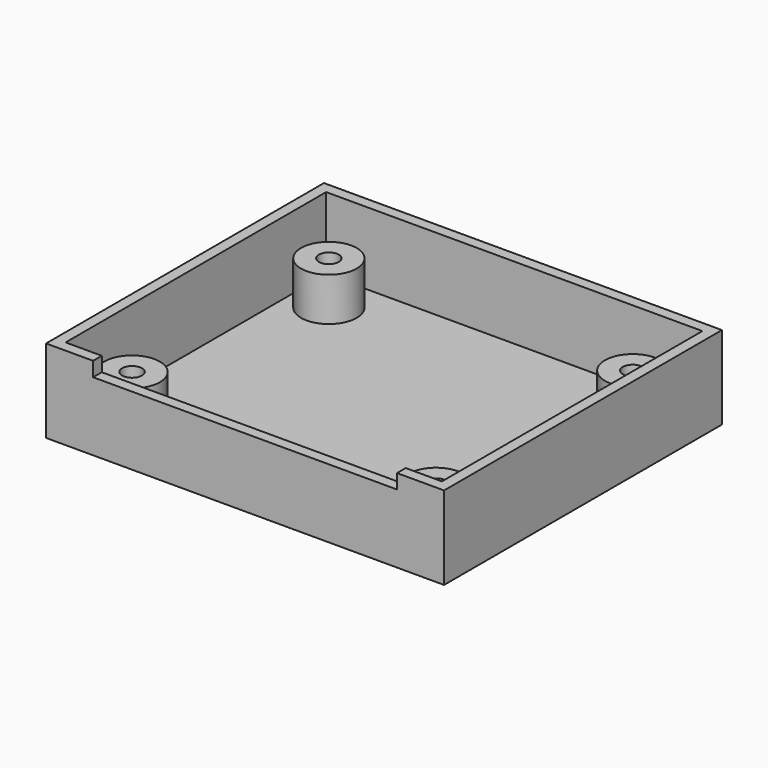
from build123d import *

# Parameters (mm, degrees)
SKETCH_W     = 55
SKETCH_H     = 48
PAD_DEPTH    = 1.5
SKETCH001_R  = 3.85
PAD001_DEPTH = 6
SKETCH002_R  = 1.375
POCKET_DEPTH = 6
PAD002_DEPTH = 10
SKETCH004_W  = 42
SKETCH004_H  = 1.5
PAD003_DEPTH = 8


with BuildPart() as part:
    # Sketch → Pad (new body)
    with BuildSketch(Plane.XY):
        with Locations((27.5, 24)):
            Rectangle(SKETCH_W, SKETCH_H)
    extrude(amount=PAD_DEPTH)

    # Sketch001 (on Face6 of Pad) → Pad001 (join)
    with BuildSketch(Plane.XY.offset(1.5)):
        with Locations((6.6, 6.6)):
            Circle(SKETCH001_R)
        with Locations((6.6, 40.6)):
            Circle(SKETCH001_R)
        with Locations((48.6, 40.6)):
            Circle(SKETCH001_R)
        with Locations((48.6, 6.6)):
            Circle(SKETCH001_R)
    extrude(amount=PAD001_DEPTH)

    # Sketch002 (on Face11 of Pad001) → Pocket (cut)
    with BuildSketch(Plane.XY.offset(7.5)):
        with Locations((6.6, 6.6)):
            Circle(SKETCH002_R)
        with Locations((6.6, 40.6)):
            Circle(SKETCH002_R)
        with Locations((48.6, 40.6)):
            Circle(SKETCH002_R)
        with Locations((48.6, 6.6)):
            Circle(SKETCH002_R)
    extrude(amount=-POCKET_DEPTH, mode=Mode.SUBTRACT)

    # Sketch003 (on Face5 of Pocket) → Pad002 (join)
    with BuildSketch(Plane.XY.offset(1.5)):
        Polygon((0, 0), (0, 48), (55, 48), (55, 0), (48.5, 0), (48.5, 1.5), (53.5, 1.5), (53.5, 46.5), (1.5, 46.5), (1.5, 1.5), (6.5, 1.5), (6.5, 0), align=None)
    extrude(amount=PAD002_DEPTH)

    # Sketch004 (on Face8 of Pad002) → Pad003 (join)
    with BuildSketch(Plane.XY.offset(1.5)):
        with Locations((27.5, 0.75)):
            Rectangle(SKETCH004_W, SKETCH004_H)
    extrude(amount=PAD003_DEPTH)


solid = part.part
